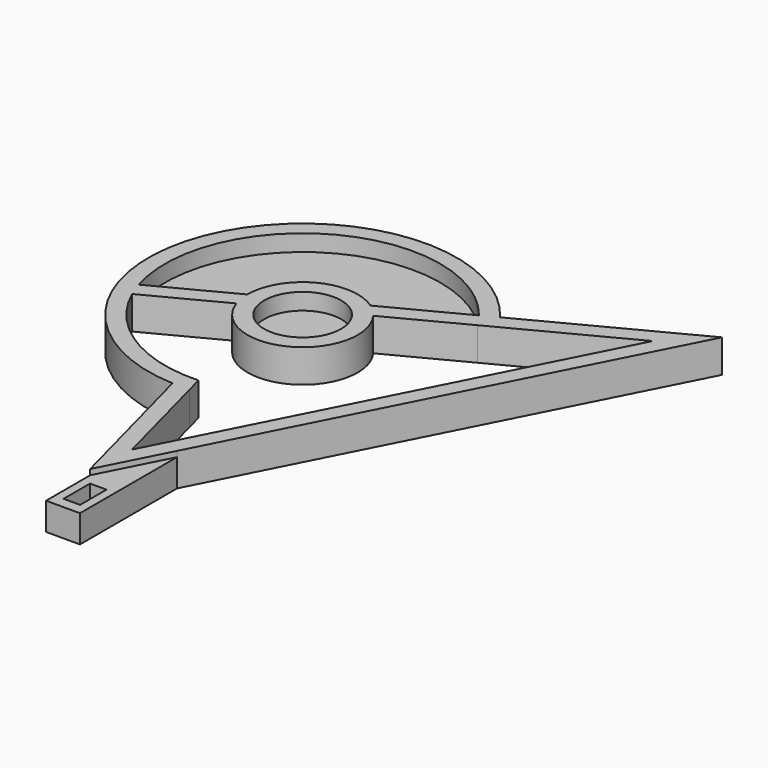
from build123d import *

# Parameters (mm, degrees)
F0_R     = 3.5
F1_DEPTH = 3
F2_DEPTH = 1.5
F3_DEPTH = 2.5
F4_W     = 1.5
F4_H     = 3
F5_DEPTH = 25
F6_ANGLE = 270


with BuildPart() as f1:
    # F0 (on Front) → F1 (new body)
    with BuildSketch(Plane.XZ):
        with BuildLine():
            ThreePointArc((5.068967, 14.506392), (-18.497587, 12.604527), (-6.737136, -7.906235))
            Line((-6.737136, -7.906235), (-3.074984, -21.828735))
            Line((-3.074984, -21.828735), (0, -15.807352))
            Line((0, -15.807352), (19.270036, 21.926922))
            Line((19.270036, 21.926922), (5.068967, 14.506392))
        make_face()
        with BuildLine():
            ThreePointArc((-5.579953, -6.408958), (-12.698313, -4.543679), (-17.533763, 1.003279))
            Line((-17.533763, 1.003279), (-10.852955, 4.494222))
            ThreePointArc((-10.852955, 4.494222), (-3.795411, 1.648276), (-2.101558, 9.067118))
            Line((-2.101558, 9.067118), (4.579249, 12.558062))
            Line((4.579249, 12.558062), (15.793873, 18.418075))
            Line((15.793873, 18.418075), (2.082535, -8.431247))
            Line((2.082535, -8.431247), (-1.779415, -15.993655))
            Line((-1.779415, -15.993655), (-2.623857, -17.647227))
            Line((-2.623857, -17.647227), (-5.190398, -7.889942))
            Line((-5.190398, -7.889942), (-5.579953, -6.408958))
        make_face(mode=Mode.SUBTRACT)
        with Locations((-6.111006, 6.079757)):
            Circle(F0_R, mode=Mode.SUBTRACT)
        with BuildLine():
            Line((-11.110928, 6.05186), (-18.062999, 2.419172))
            ThreePointArc((-18.062999, 2.419172), (-11.899995, 17.158457), (3.719128, 13.801056))
            Line((3.719128, 13.801056), (-3.232943, 10.168369))
            ThreePointArc((-3.232943, 10.168369), (-8.426602, 10.511237), (-11.110928, 6.05186))
        make_face(mode=Mode.SUBTRACT)
    extrude(amount=F1_DEPTH)

    # F0 (on Front) → F2 (join)
    with BuildSketch(Plane.XZ):
        with BuildLine():
            ThreePointArc((3.719128, 13.801056), (-11.899995, 17.158457), (-18.062999, 2.419172))
            Line((-18.062999, 2.419172), (-11.110928, 6.05186))
            ThreePointArc((-11.110928, 6.05186), (-8.426602, 10.511237), (-3.232943, 10.168369))
            Line((-3.232943, 10.168369), (3.719128, 13.801056))
        make_face()
        with Locations((-6.111006, 6.079757)):
            Circle(F0_R)
    extrude(amount=F2_DEPTH)

    # F0 (on Front) → F3 (join)
    with BuildSketch(Plane.XZ):
        Polygon((0, -15.807352), (-3.074984, -21.828735), (-3.074984, -26.828735), (0, -26.828735), align=None)
    extrude(amount=F3_DEPTH)

    # F4 (on face) → F5 (cut)
    with BuildSketch(Plane.XZ.offset(2.5)):
        with Locations((-1.537492, -24.328735)):
            Rectangle(F4_W, F4_H)
    extrude(amount=-F5_DEPTH, mode=Mode.SUBTRACT)


with BuildPart() as f1_1:
    # F6: moved
    add(f1.part.rotate(Axis((-1.537492, -2.5, -26.828735), (1, 0, 0)), F6_ANGLE))


solid = f1_1.part
